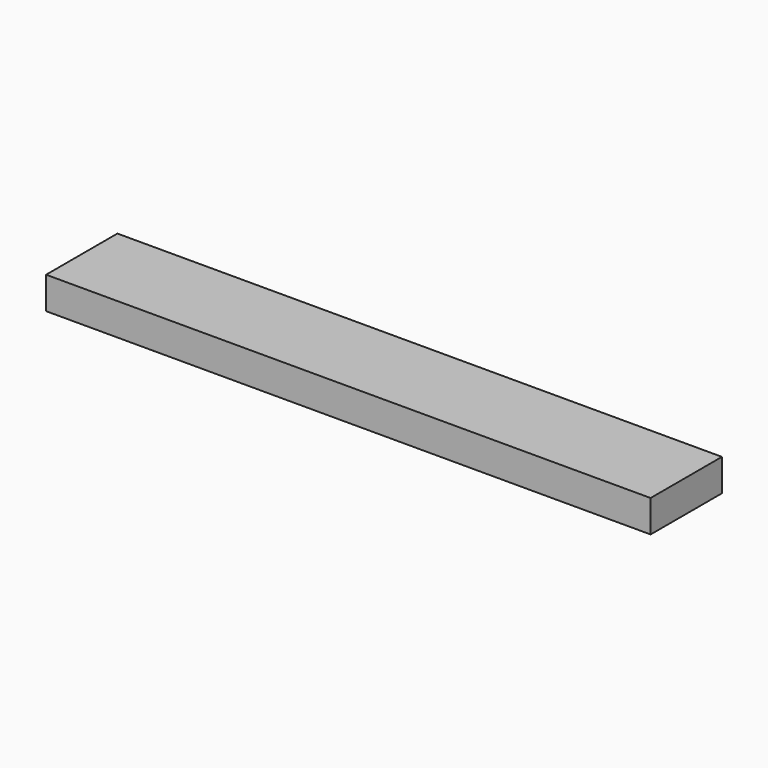
from build123d import *

# Parameters (mm, degrees)
SKETCH_W  = 339
SKETCH_H  = 50
PAD_DEPTH = 18


with BuildPart() as part:
    # Sketch → Pad (new body)
    with BuildSketch(Plane.XY):
        Rectangle(SKETCH_W, SKETCH_H)
    extrude(amount=PAD_DEPTH)


solid = part.part
